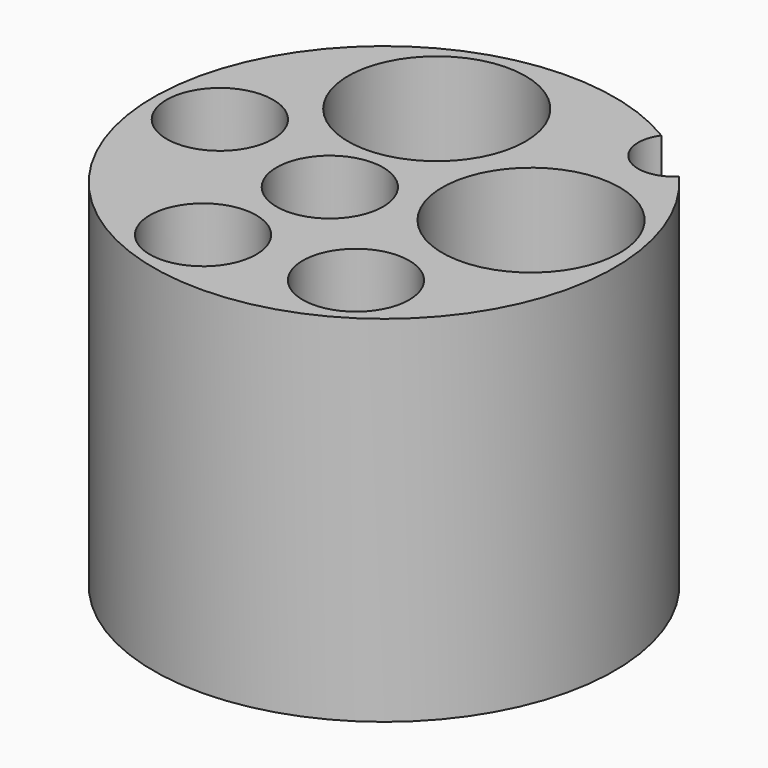
from build123d import *

# Parameters (mm, degrees)
F0_R     = 6.5
F1_DEPTH = 10
F3_R     = 2.5
F3_R_2   = 1.5
F3_R_3   = 1
F4_DEPTH = 25
F5_DEPTH = 15


with BuildPart() as f1:
    # F0 (on Top) → F1 (new body)
    with BuildSketch(Plane.XY):
        Circle(F0_R)
    extrude(amount=F1_DEPTH)

    # F3 (on offset) → F4 (cut, symmetric)
    with BuildSketch(Plane.XY.offset(10)):
        with Locations((-1.288395, 3.468435)):
            Circle(F3_R)
        with Locations((-4.699119, 0.091015)):
            Circle(F3_R_2)
        with Locations((-0.794072, -0.917286)):
            Circle(F3_R_2)
        with Locations((4.178119, 4.979289)):
            Circle(F3_R_3)
        with Locations((3.64795, 0.618435)):
            Circle(F3_R)
        with Locations((2.428381, -4.024049)):
            Circle(F3_R_2)
        with Locations((-1.550249, -4.436973)):
            Circle(F3_R_2)
    extrude(amount=F4_DEPTH, both=True, mode=Mode.SUBTRACT)

    # F3 (on offset) → F5 (cut, symmetric)
    with BuildSketch(Plane.XY.offset(10)):
        with Locations((4.178119, 4.979289)):
            Circle(F3_R_3)
    extrude(amount=F5_DEPTH, both=True, mode=Mode.SUBTRACT)


solid = f1.part
